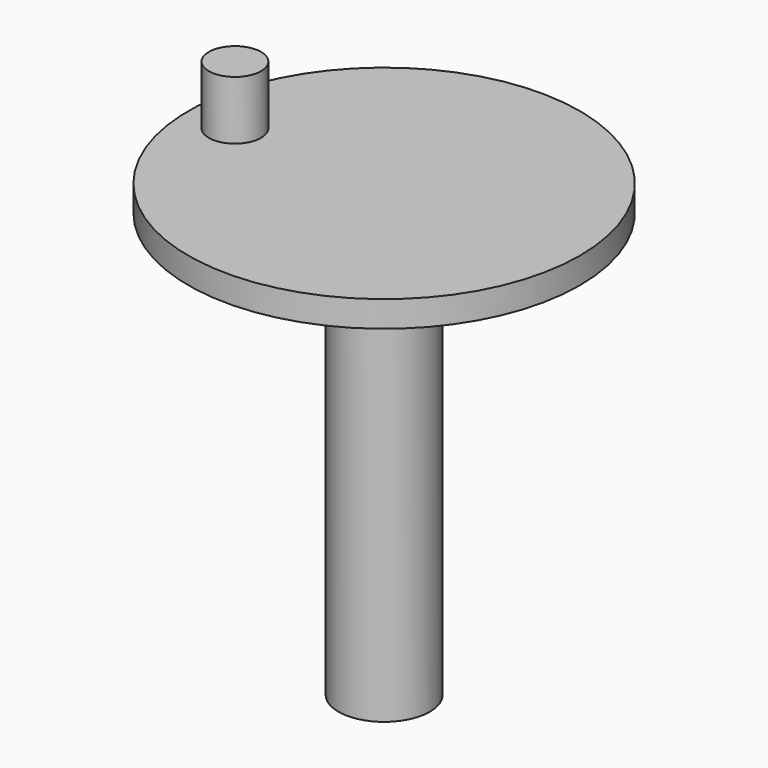
from build123d import *

# Parameters (mm, degrees)
F0_R     = 7.62
F1_DEPTH = 1.016
F2_R     = 1.016
F3_DEPTH = 2.286
F4_R     = 1.778
F5_DEPTH = 16.51


with BuildPart() as f1:
    # F0 (on Top) → F1 (new body)
    with BuildSketch(Plane.XY):
        Circle(F0_R)
    extrude(amount=F1_DEPTH)

    # F2 (on face) → F3 (join)
    with BuildSketch(Plane.XY.offset(1.016)):
        with Locations((-5.806038, 0)):
            Circle(F2_R)
    extrude(amount=F3_DEPTH)

    # F4 (on face) → F5 (join)
    with BuildSketch(Plane(origin=(0, 0, 0), x_dir=(1, 0, 0), z_dir=(0, 0, -1))):
        Circle(F4_R)
    extrude(amount=F5_DEPTH)


solid = f1.part
